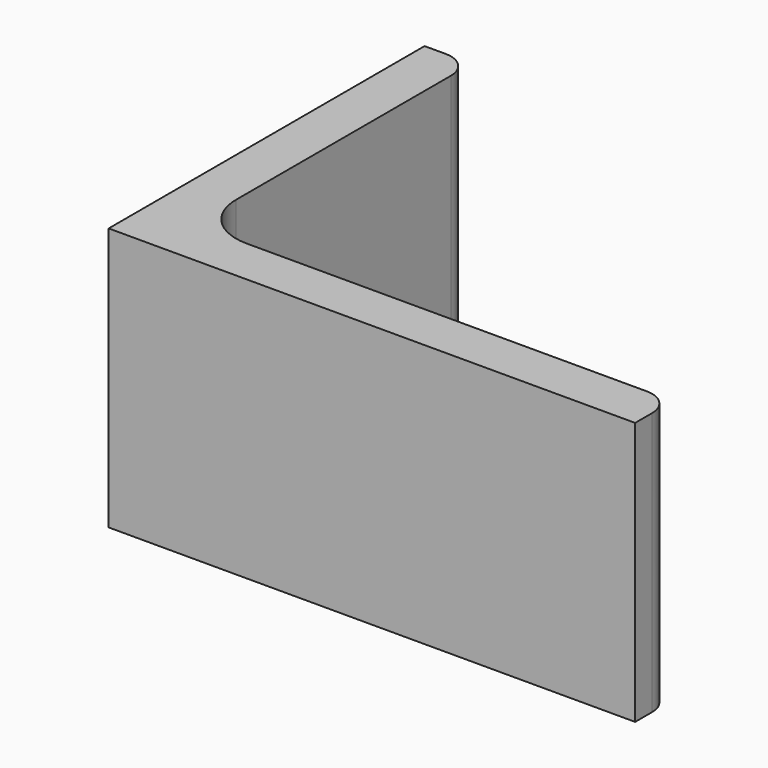
from build123d import *

# Parameters (mm, degrees)
EXTRUDE_DEPTH = 50


with BuildPart() as part:
    # Sketch → Extrude (new body)
    with BuildSketch(Plane.XY):
        with BuildLine():
            Line((0, 0), (100, 0))
            Line((100, 0), (100, 4))
            ThreePointArc((100, 4), (98.535534, 7.535534), (95, 9))
            Line((95, 9), (19, 9))
            ThreePointArc((9, 19), (11.928932, 11.928932), (19, 9))
            Line((9, 70), (9, 19))
            ThreePointArc((9, 70), (7.535534, 73.535534), (4, 75))
            Line((0, 75), (4, 75))
            Line((0, 0), (0, 75))
        make_face()
    extrude(amount=EXTRUDE_DEPTH)


solid = part.part
